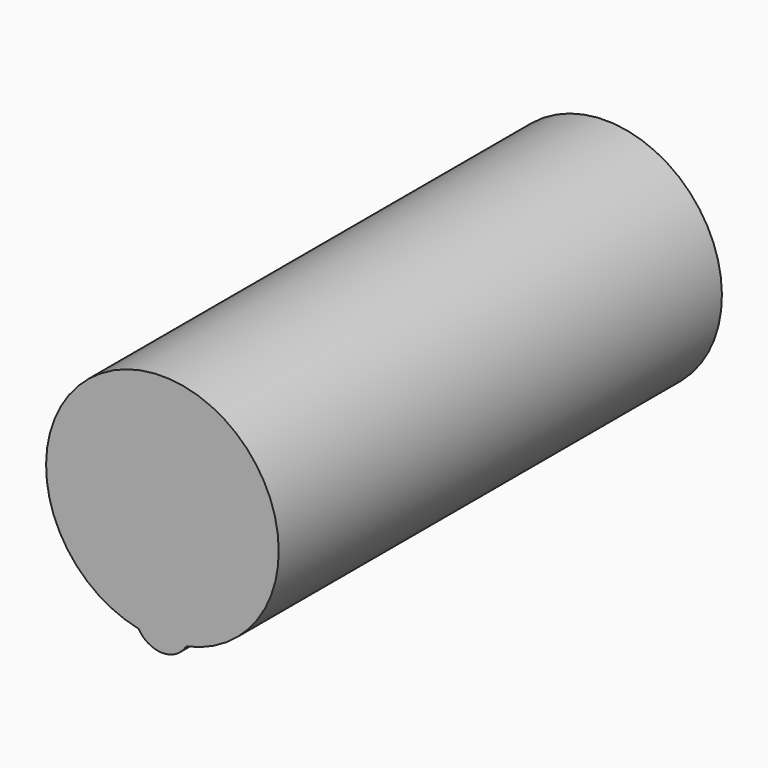
from build123d import *

# Parameters (mm, degrees)
CYLINDER011_R     = 2.1
CYLINDER011_DEPTH = 10
CYLINDER009_R     = 0.5
CYLINDER009_DEPTH = 10


with BuildPart() as cylinder011:
    # Cylinder011 → Cylinder011 (new body)
    with BuildSketch(Plane(origin=(10, 0, 10), x_dir=(1, 0, 0), z_dir=(0, -1, 0))):
        Circle(CYLINDER011_R)
    extrude(amount=CYLINDER011_DEPTH)


with BuildPart() as fusion014018:
    # Cylinder009 → Cylinder009 (new body)
    with BuildSketch(Plane(origin=(10, 0, 8.2), x_dir=(1, 0, 0), z_dir=(0, -1, 0))):
        Circle(CYLINDER009_R)
    extrude(amount=CYLINDER009_DEPTH)

    # Fusion014018: union Cylinder011
    add(cylinder011.part)


with BuildPart() as fusion014018_1:
    # Fusion014018 placement: moved
    add(fusion014018.part.moved(Location((10, 0, 0))))


solid = fusion014018_1.part
